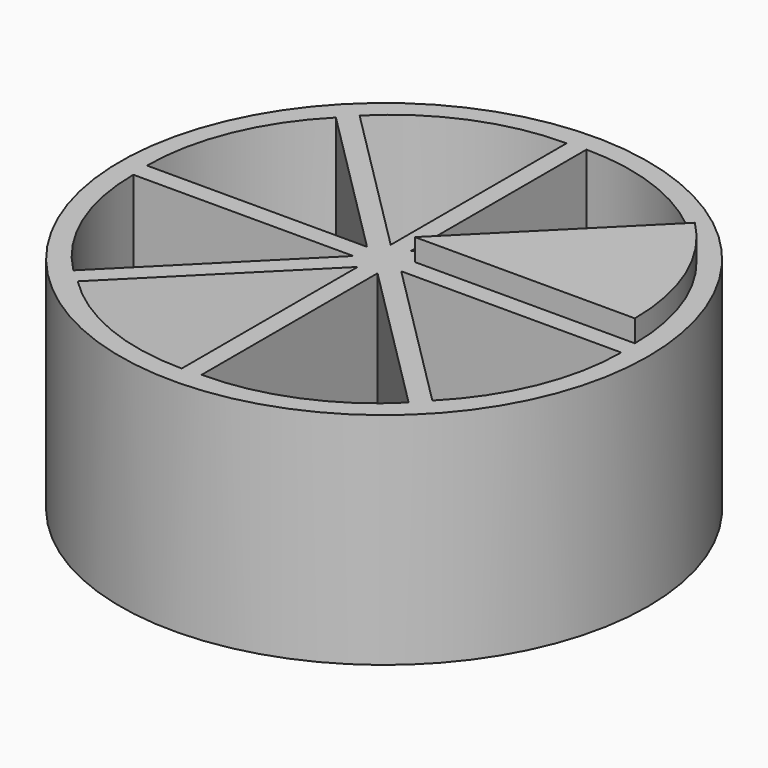
from build123d import *

# Parameters (mm, degrees)
CYLINDER002_W     = 10
CYLINDER002_H     = 10
CYLINDER002_ANGLE = 45
CYLINDER001_W     = 10
CYLINDER001_H     = 10
CYLINDER001_ANGLE = 45
ARRAY_COUNT       = 8
CYLINDER_R        = 12
CYLINDER_DEPTH    = 10


with BuildPart() as cilindre002:
    # Cylinder002 → Cylinder002 (revolve)
    with BuildSketch(Plane(origin=(1, 0.5, 1), x_dir=(1, 0, 0), z_dir=(0, -1, 0))):
        with Locations((5, 5)):
            Rectangle(CYLINDER002_W, CYLINDER002_H)
    revolve(axis=Axis((1, 0.5, 1), (0, 0, 1)), revolution_arc=CYLINDER002_ANGLE)


with BuildPart() as array:
    # Cylinder001 → Cylinder001 (revolve)
    with BuildSketch(Plane(origin=(1, 0.5, 0), x_dir=(1, 0, 0), z_dir=(0, -1, 0))):
        with Locations((5, 5)):
            Rectangle(CYLINDER001_W, CYLINDER001_H)
    revolve(axis=Axis((1, 0.5, 0), (0, 0, 1)), revolution_arc=CYLINDER001_ANGLE)

    # Array: Array ×8 about axis
    array_axis = Axis((0, 0, 0), (0, 0, 1))


with BuildPart() as array_1:
    add(array.part)
    for i in range(1, ARRAY_COUNT):
        add(array.part.rotate(array_axis, i * 360 / ARRAY_COUNT))


with BuildPart() as array_2:
    # Array placement: moved
    add(array_1.part.moved(Location((0, 0, 1))))


with BuildPart() as cut:
    # Cylinder → Cylinder (new body)
    with BuildSketch(Plane.XY):
        Circle(CYLINDER_R)
    extrude(amount=CYLINDER_DEPTH)

    # Cut: cut Array
    add(array_2.part, mode=Mode.SUBTRACT)


solid = Compound([cilindre002.part, cut.part])
